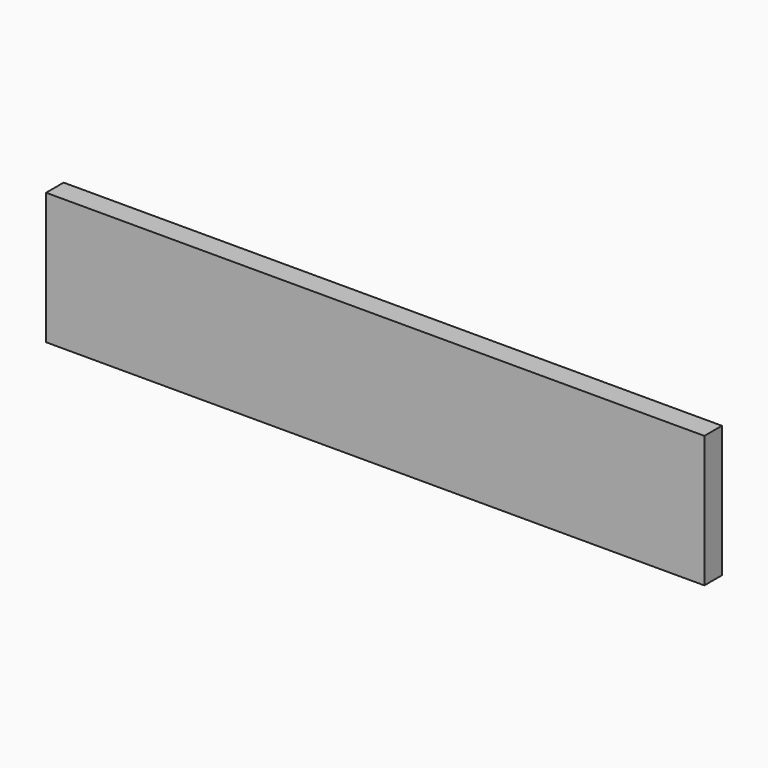
from build123d import *

# Parameters (mm, degrees)
SKETCH_W  = 900
SKETCH_H  = 180
PAD_DEPTH = 30


with BuildPart() as part:
    # Sketch → Pad (new body)
    with BuildSketch(Plane.XZ):
        with Locations((450, 90)):
            Rectangle(SKETCH_W, SKETCH_H)
    extrude(amount=PAD_DEPTH)


solid = part.part
